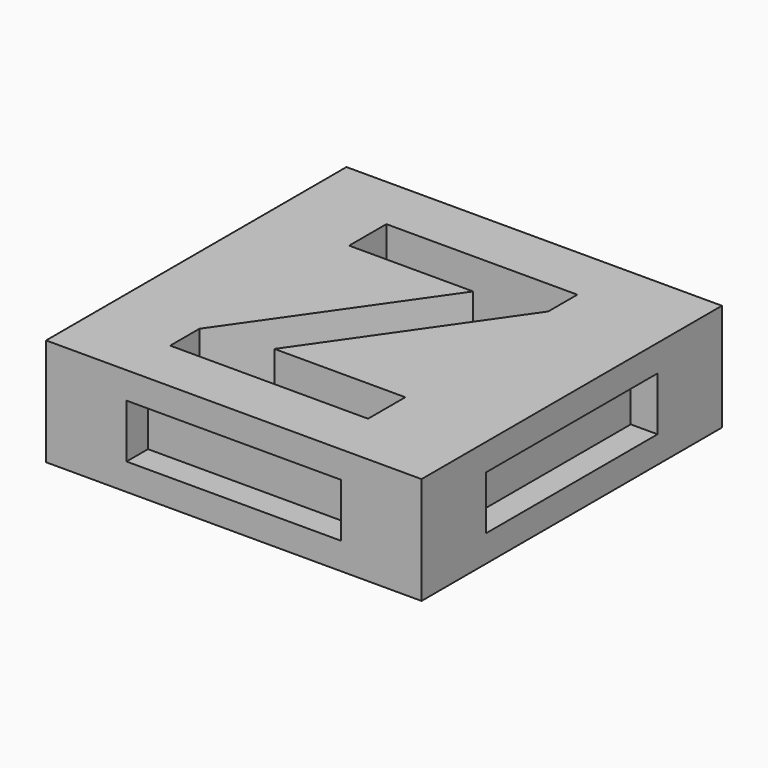
from build123d import *

# Parameters (mm, degrees)
F0_W     = 35.56
F0_H     = 35.56
F1_DEPTH = 5.08
F2_W     = 19.812
F2_H     = 4.572
F3_DEPTH = 2.54
F4_W     = 19.812
F4_H     = 4.572
F5_DEPTH = 2.54
F6_W     = 20.32
F6_H     = 5.08
F7_DEPTH = 2.54
F8_W     = 20.32
F8_H     = 5.08
F9_DEPTH = 2.54


with BuildPart() as f1:
    # F0 (on Top) → F1 (new body, symmetric)
    with BuildSketch(Plane.XY):
        Rectangle(F0_W, F0_H)
        Polygon((8.6485677083, -8.2902777778), (8.6485677083, -12.7), (-10.0927517361, -12.7), (-10.0927517361, -9.2383680556), (1.984375, 8.0753038194), (-9.7620225694, 8.0753038194), (-9.7620225694, 12.4850260417), (8.3233506944, 12.4850260417), (8.3233506944, 9.0399305556), (-3.7372395833, -8.2902777778), align=None, mode=Mode.SUBTRACT)
    extrude(amount=F1_DEPTH, both=True)

    # F2 (on face) → F3 (join)
    with BuildSketch(Plane(origin=(0, 17.78, 0), x_dir=(-1, 0, 0), z_dir=(0, 1, 0))):
        Rectangle(F2_W, F2_H)
    extrude(amount=F3_DEPTH)

    # F4 (on face) → F5 (join)
    with BuildSketch(Plane(origin=(-17.78, 0, 0), x_dir=(0, -1, 0), z_dir=(-1, 0, 0))):
        Rectangle(F4_W, F4_H)
    extrude(amount=F5_DEPTH)

    # F6 (on face) → F7 (cut)
    with BuildSketch(Plane.XZ.offset(17.78)):
        Rectangle(F6_W, F6_H)
    extrude(amount=-F7_DEPTH, mode=Mode.SUBTRACT)

    # F8 (on face) → F9 (cut)
    with BuildSketch(Plane.YZ.offset(17.78)):
        Rectangle(F8_W, F8_H)
    extrude(amount=-F9_DEPTH, mode=Mode.SUBTRACT)


solid = f1.part
